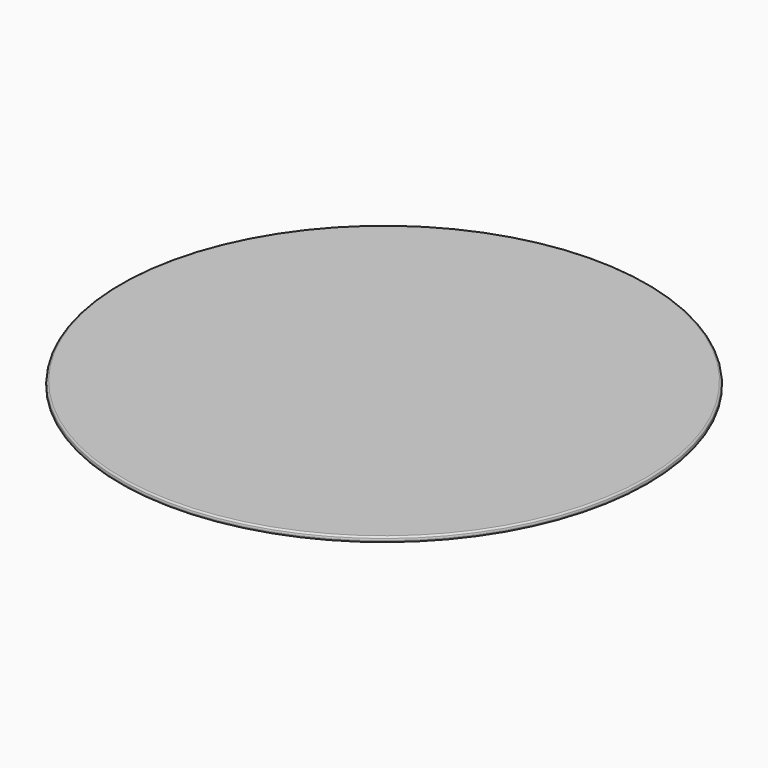
from build123d import *

# Parameters (mm, degrees)
F0_R     = 15
F1_DEPTH = 0.3
F1_TAPER = 8
F2_R     = 0.1


with BuildPart() as f1:
    # F0 (on Top) → F1 (new body)
    with BuildSketch(Plane.XY):
        Circle(F0_R)
    extrude(amount=F1_DEPTH, taper=F1_TAPER)

    # F2
    f2_edges = [f1.edges().sort_by_distance(p)[0] for p in [
        (-14.957838, 0, 0.3),
        (-15, 0, 0),
    ]]
    fillet(f2_edges, radius=F2_R)


solid = f1.part
